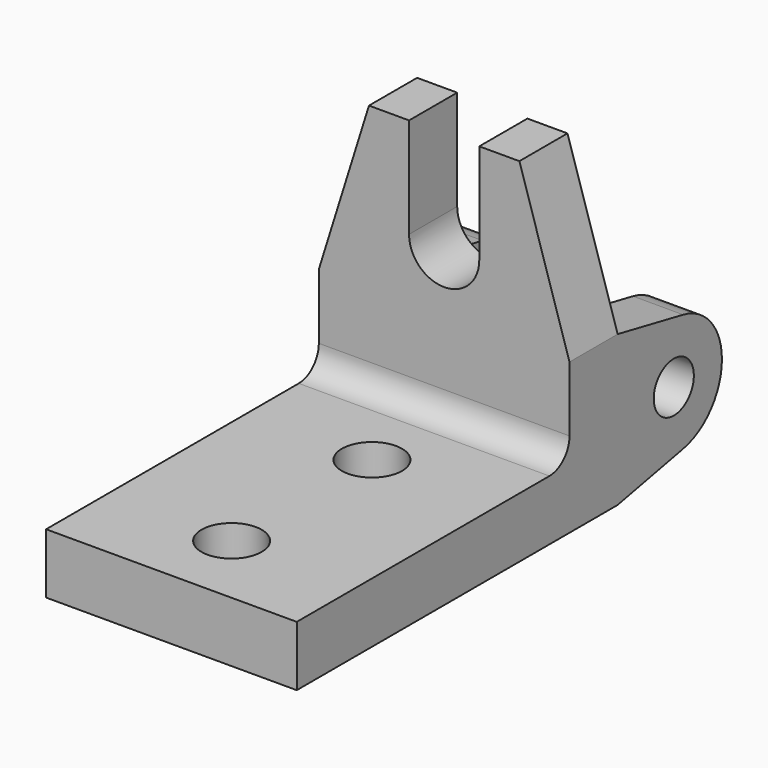
from build123d import *

# Parameters (mm, degrees)
F1_DEPTH = 25
F3_DEPTH = 6
F4_R     = 3
F5_DEPTH = 6
F6_W     = 5
F6_H     = 15
F7_DEPTH = 13
F8_R     = 2.5
F9_DEPTH = 25


with BuildPart() as f1:
    # F0 (on Right) → F1 (new body)
    with BuildSketch(Plane.YZ):
        with BuildLine():
            Line((0, 6), (0, 0))
            Line((0, 0), (40, 0))
            Line((40, 0), (40, 31))
            Line((40, 31), (34, 31))
            Line((34, 31), (34, 8.5))
            ThreePointArc((34, 8.5), (33.267767, 6.732233), (31.5, 6))
            Line((31.5, 6), (0, 6))
        make_face()
    extrude(amount=F1_DEPTH)

    # F2 (on face) → F3 (cut)
    with BuildSketch(Plane(origin=(0, 40, 0), x_dir=(-1, 0, 0), z_dir=(0, 1, 0))):
        Polygon((-25, 31), (-25, 15), (-20, 31), align=None)
        with BuildLine():
            Line((-9, 21), (-9, 31))
            Line((-9, 31), (-12.5, 31))
            Line((-12.5, 31), (-16, 31))
            Line((-16, 31), (-16, 21))
            ThreePointArc((-16, 21), (-12.5, 17.5), (-9, 21))
        make_face()
        Polygon((-5, 31), (0, 15), (0, 31), align=None)
        Polygon((-9, 31), (-5, 31), (0, 31), (0, 32), (-25, 32), (-25, 31), (-20, 31), (-16, 31), (-12.5, 31), align=None)
    extrude(amount=-F3_DEPTH, mode=Mode.SUBTRACT)

    # F4 (on face) → F5 (cut)
    with BuildSketch(Plane.XY.offset(6)):
        with Locations((12.5, 25)):
            Circle(F4_R)
        with Locations((12.5, 7.5)):
            Circle(F4_R)
    extrude(amount=-F5_DEPTH, mode=Mode.SUBTRACT)

    # F6 (on face) → F7 (join)
    with BuildSketch(Plane(origin=(0, 40, 0), x_dir=(-1, 0, 0), z_dir=(0, 1, 0))):
        with Locations((-22.5, 7.5)):
            Rectangle(F6_W, F6_H)
        with Locations((-2.5, 7.5)):
            Rectangle(F6_W, F6_H)
    extrude(amount=F7_DEPTH)

    # F8 (on face) → F9 (cut)
    with BuildSketch(Plane.YZ.offset(25)):
        with BuildLine():
            ThreePointArc((48.163654, 13.386077), (51.635835, 11.309073), (53, 7.5))
            Line((53, 7.5), (53, 15))
            Line((53, 15), (40, 15))
            Line((40, 15), (48.163654, 13.386077))
        make_face()
        with Locations((47, 7.5)):
            Circle(F8_R)
        with BuildLine():
            Line((48.163654, 1.613923), (40, 0))
            Line((40, 0), (47, 0))
            Line((47, 0), (53, 0))
            Line((53, 0), (53, 7.5))
            ThreePointArc((53, 7.5), (51.635835, 3.690927), (48.163654, 1.613923))
        make_face()
    extrude(amount=-F9_DEPTH, mode=Mode.SUBTRACT)


solid = f1.part
